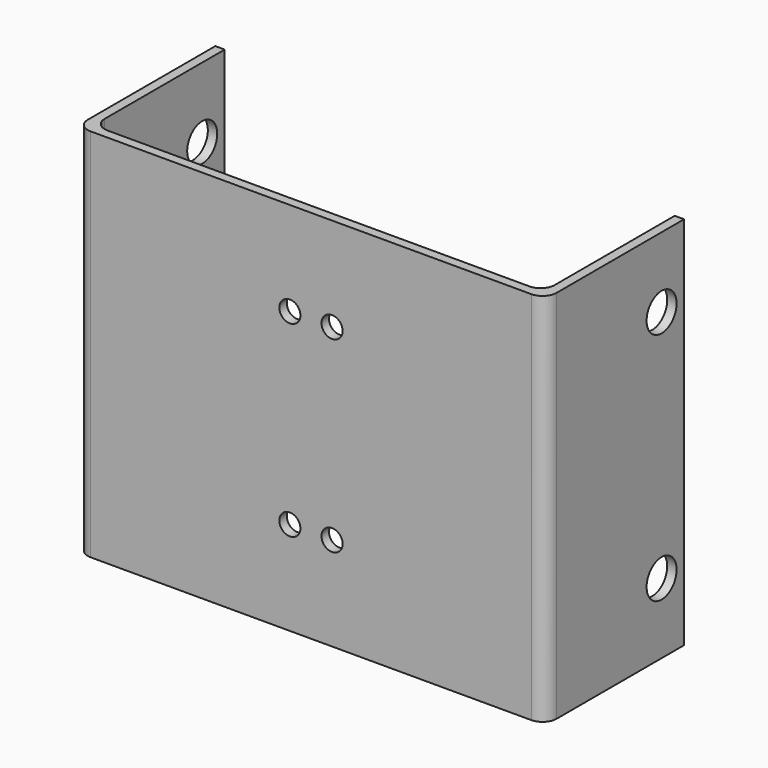
from build123d import *

# Parameters (mm, degrees)
PAD_DEPTH            = 40
SKETCH001_R          = 4
POCKET_DEPTH         = 50.001
POCKET_DEPTH_BACK    = -50.001
SKETCH002_R          = 2.25
POCKET001_DEPTH      = 37.001
POCKET001_DEPTH_BACK = -0.001
FILLET_R             = 3


with BuildPart() as part:
    # Sketch → Pad (new body, symmetric)
    with BuildSketch(Plane.XY):
        Polygon((-50, 0), (50, 0), (50, 37), (48, 37), (48, 2), (-48, 2), (-48, 37), (-50, 37), align=None)
    extrude(amount=PAD_DEPTH, both=True)

    # Sketch001 → Pocket (cut, two sides)
    with BuildSketch(Plane.YZ) as pocket_sk:
        with Locations((31, 25)):
            Circle(SKETCH001_R)
        with Locations((31, -25)):
            Circle(SKETCH001_R)
    extrude(amount=-POCKET_DEPTH, mode=Mode.SUBTRACT)
    extrude(pocket_sk.sketch, amount=-POCKET_DEPTH_BACK, mode=Mode.SUBTRACT)

    # Sketch002 → Pocket001 (cut, two sides)
    with BuildSketch(Plane.XZ) as pocket001_sk:
        with Locations((-4.5, 20)):
            Circle(SKETCH002_R)
        with Locations((4.5, 20)):
            Circle(SKETCH002_R)
        with Locations((-4.5, -20)):
            Circle(SKETCH002_R)
        with Locations((4.5, -20)):
            Circle(SKETCH002_R)
    extrude(amount=-POCKET001_DEPTH, mode=Mode.SUBTRACT)
    extrude(pocket001_sk.sketch, amount=-POCKET001_DEPTH_BACK, mode=Mode.SUBTRACT)

    # Fillet
    fillet_edges = [part.edges().sort_by_distance(p)[0] for p in [
        (48, 2, 0),
        (-48, 2, 0),
        (50, 0, 0),
        (-50, 0, 0),
    ]]
    fillet(fillet_edges, radius=FILLET_R)


solid = part.part
